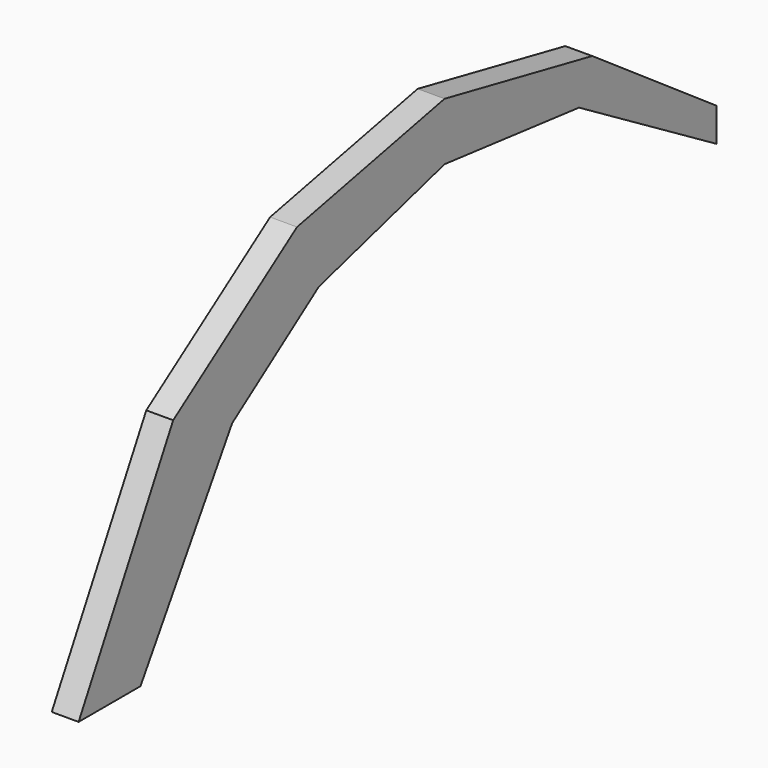
from build123d import *

# Parameters (mm, degrees)
F1_DEPTH = 80


with BuildPart() as f1:
    # F0 (on Right) → F1 (new body)
    with BuildSketch(Plane.YZ):
        Polygon((351.561053, 646.96422), (0, 0), (115, 0), (230, 0), (570.722156, 550), (892.944141, 776.465072), (1360.494986, 907.235331), (1860.450973, 852.12306), (2370.722156, 550), (2370.722156, 650), (1909.348458, 967.386691), (1360.494986, 1078.561624), (811.978294, 965.73681), align=None)
    extrude(amount=F1_DEPTH)


solid = f1.part
